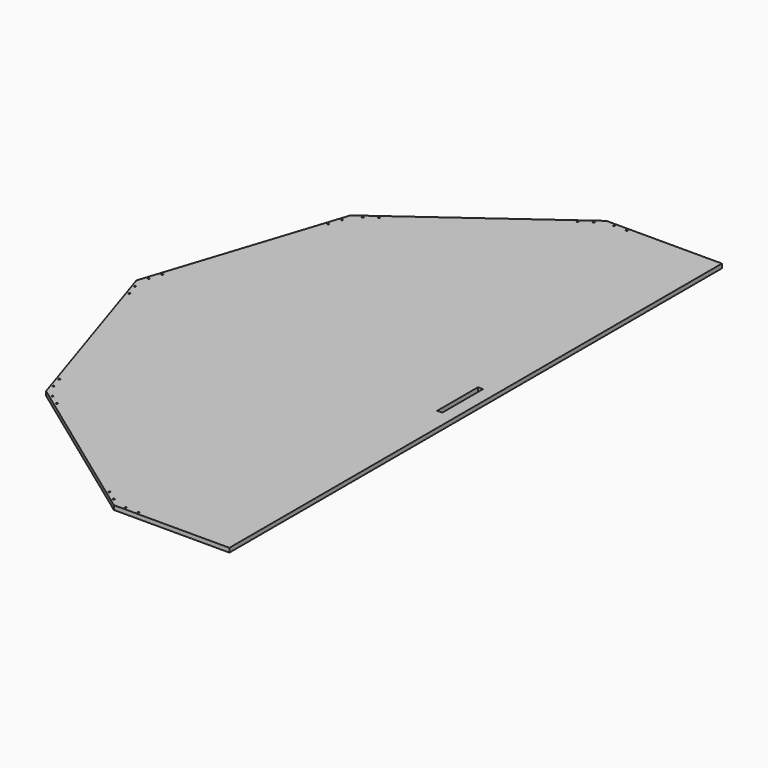
from build123d import *

# Parameters (mm, degrees)
F0_R     = 1
F0_W     = 6
F0_H     = 60
F1_DEPTH = 5


with BuildPart() as f1:
    # F0 (on Top) → F1 (new body)
    with BuildSketch(Plane.XY):
        Polygon((-117.94585, -363), (18.319213, -363), (18.319213, 363), (-117.94585, 363), (-308.786243, 224.346338), (-381.680787, 0), (-308.786243, -224.346338), align=None)
        with Locations((-297.727783, -228.672576)):
            Circle(F0_R, mode=Mode.SUBTRACT)
        with Locations((-309.483488, -212.492236)):
            Circle(F0_R, mode=Mode.SUBTRACT)
        with Locations((-314.118743, -198.226388)):
            Circle(F0_R, mode=Mode.SUBTRACT)
        with Locations((-285.592528, -237.489355)):
            Circle(F0_R, mode=Mode.SUBTRACT)
        with Locations((-125.477599, -353.81966)):
            Circle(F0_R, mode=Mode.SUBTRACT)
        with Locations((-137.612854, -345.002881)):
            Circle(F0_R, mode=Mode.SUBTRACT)
        with Locations((-106.456468, -360)):
            Circle(F0_R, mode=Mode.SUBTRACT)
        with Locations((-91.456468, -360)):
            Circle(F0_R, mode=Mode.SUBTRACT)
        with Locations((-370.641949, -24.265848)):
            Circle(F0_R, mode=Mode.SUBTRACT)
        with Locations((-375.277204, -10)):
            Circle(F0_R, mode=Mode.SUBTRACT)
        with Locations((-375.277204, 10)):
            Circle(F0_R, mode=Mode.SUBTRACT)
        with Locations((-370.641949, 24.265848)):
            Circle(F0_R, mode=Mode.SUBTRACT)
        with Locations((-314.118743, 198.226388)):
            Circle(F0_R, mode=Mode.SUBTRACT)
        with Locations((-309.483488, 212.492236)):
            Circle(F0_R, mode=Mode.SUBTRACT)
        with Locations((-297.727783, 228.672576)):
            Circle(F0_R, mode=Mode.SUBTRACT)
        with Locations((-285.592528, 237.489355)):
            Circle(F0_R, mode=Mode.SUBTRACT)
        with Locations((-137.612854, 345.002881)):
            Circle(F0_R, mode=Mode.SUBTRACT)
        with Locations((-125.477599, 353.81966)):
            Circle(F0_R, mode=Mode.SUBTRACT)
        with Locations((-106.456468, 360)):
            Circle(F0_R, mode=Mode.SUBTRACT)
        with Locations((-91.456468, 360)):
            Circle(F0_R, mode=Mode.SUBTRACT)
        Rectangle(F0_W, F0_H, mode=Mode.SUBTRACT)
    extrude(amount=F1_DEPTH)


solid = f1.part
